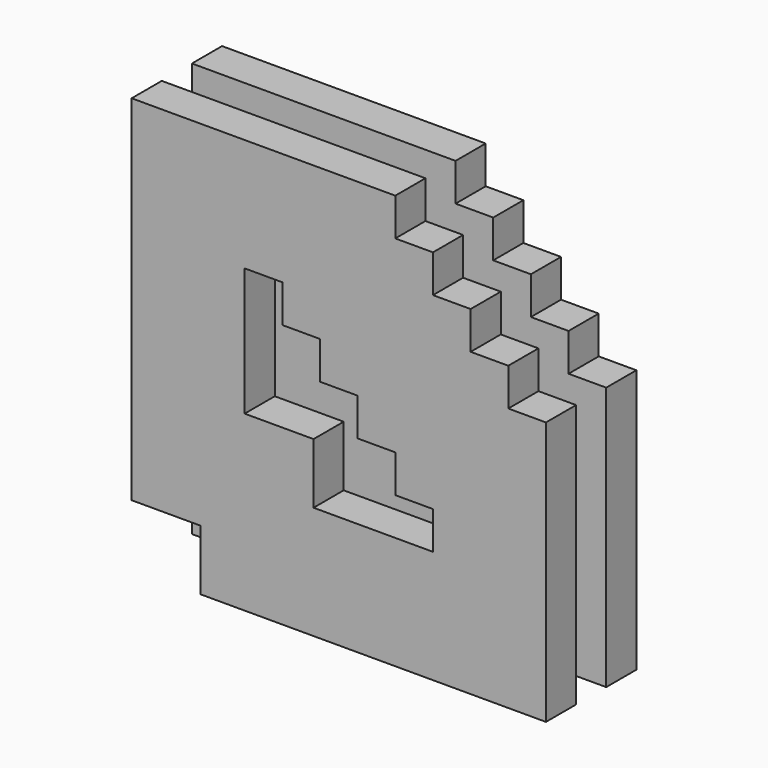
from build123d import *

# Parameters (mm, degrees)
F1_DEPTH = 50.8
F2_W     = 46.4695086598
F2_H     = 40.7440985173
F3_DEPTH = 25.4
F5_DEPTH = 25.4
F7_DEPTH = 25.4


with BuildPart() as f1:
    # F0 (on Front) → F1 (new body)
    with BuildSketch(Plane.XZ):
        Polygon((-50.8, 76.2), (-76.2, 76.2), (-76.2, -50.8), (50.8, -50.8), (50.8, -25.4), (25.4, -25.4), (25.4, 0), (0, 0), (0, 25.4), (-25.4, 25.4), (-25.4, 50.8), (-50.8, 50.8), (-50.8, 67.4914264514), align=None)
        Polygon((-50.8, 76.2), (-76.2, 76.2), (-76.2, -50.8), (50.8, -50.8), (50.8, -25.4), (25.4, -25.4), (25.4, 0), (0, 0), (0, 25.4), (-25.4, 25.4), (-25.4, 50.8), (-50.8, 50.8), (-50.8, 67.4914264514), align=None)
    extrude(amount=F1_DEPTH)

    # F2 (on face) → F3 (cut)
    with BuildSketch(Plane.XZ.offset(50.8)):
        with Locations((-52.9652456701, -30.4279507414)):
            Rectangle(F2_W, F2_H)
    extrude(amount=-F3_DEPTH, mode=Mode.SUBTRACT)

    # F4 (on face) → F5 (join)
    with BuildSketch(Plane.XZ):
        Polygon((76.2, 101.6), (50.8, 101.6), (50.8, 127), (25.4, 127), (25.4, 152.4), (-152.4, 152.4), (-152.4, -127), (127, -127), (127, 50.8), (101.6, 50.8), (101.6, 76.2), (76.2, 76.2), align=None)
        Polygon((-76.2, 76.2), (-50.8, 76.2), (-50.8, 67.4914264514), (-50.8, 50.8), (-25.4, 50.8), (-25.4, 25.4), (0, 25.4), (0, 0), (25.4, 0), (25.4, -25.4), (50.8, -25.4), (50.8, -50.8), (-76.2, -50.8), align=None, mode=Mode.SUBTRACT)
        Polygon((76.2, 101.6), (50.8, 101.6), (50.8, 127), (25.4, 127), (25.4, 152.4), (-152.4, 152.4), (-152.4, -127), (127, -127), (127, 50.8), (101.6, 50.8), (101.6, 76.2), (76.2, 76.2), align=None)
    extrude(amount=F5_DEPTH)


with BuildPart() as f7:
    # F6 (on face) → F7 (new body)
    with BuildSketch(Plane.XZ.offset(50.8)):
        Polygon((25.4, 152.4), (-152.4, 152.4), (-152.4, -86.2559014827), (-105.9304913402, -86.2559014827), (-105.9304913402, -127), (127, -127), (127, 50.8), (101.6, 50.8), (101.6, 76.2), (76.2, 76.2), (76.2, 101.6), (50.8, 101.6), (50.8, 127), (25.4, 127), align=None)
        Polygon((-50.8, 76.2), (-50.8, 50.8), (-25.4, 50.8), (-25.4, 25.4), (0, 25.4), (0, 0), (25.4, 0), (25.4, -25.4), (50.8, -25.4), (50.8, -50.8), (-29.7304913402, -50.8), (-29.7304913402, -10.0559014827), (-76.2, -10.0559014827), (-76.2, 76.2), align=None, mode=Mode.SUBTRACT)
    extrude(amount=F7_DEPTH)


solid = Compound([f1.part, f7.part])
